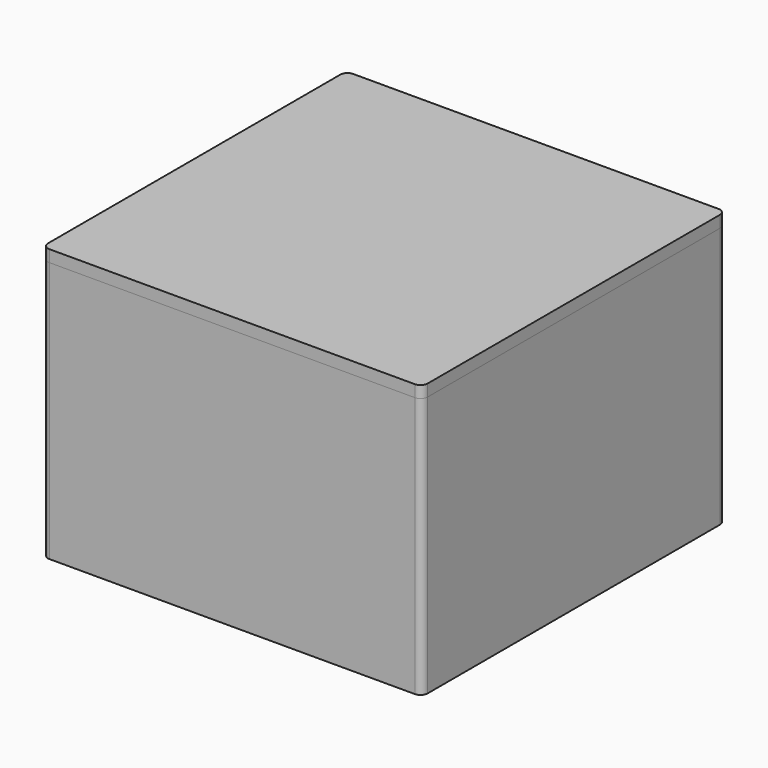
from build123d import *

# Parameters (mm, degrees)
SKETCH_W          = 150
SKETCH_H          = 150
PAD_DEPTH         = 100
SKETCH001_W       = 140
SKETCH001_H       = 140
POCKET_DEPTH      = 95
SKETCH002_W       = 10
SKETCH002_H       = 200
POCKET001_DEPTH   = 93
FILLET_R          = 3
SKETCH003_W       = 160
SKETCH003_H       = 160
PAD001_DEPTH      = 105
PAD001_DEPTH_BACK = 5
SKETCH004_W       = 151.2
SKETCH004_H       = 151.2
POCKET002_DEPTH   = 105
FILLET001_R       = 3
PAD002_START      = 105
SKETCH005_W       = 160
SKETCH005_H       = 160
PAD002_DEPTH      = 5
PAD003_START      = 100.06
SKETCH006_W       = 150.6
SKETCH006_H       = 150.6
PAD003_DEPTH      = 4.94
FILLET002_R       = 3


with BuildPart() as inner_sleeve:
    # Sketch → Pad (new body)
    with BuildSketch(Plane.XY):
        Rectangle(SKETCH_W, SKETCH_H)
    extrude(amount=PAD_DEPTH)

    # Sketch001 (on Face6 of Pad) → Pocket (cut)
    with BuildSketch(Plane.XY.offset(100)):
        Rectangle(SKETCH001_W, SKETCH001_H)
    extrude(amount=-POCKET_DEPTH, mode=Mode.SUBTRACT)

    # Sketch002 (on Face5 of Pocket) → Pocket001 (cut)
    with BuildSketch(Plane.XY.offset(100)):
        Rectangle(SKETCH002_W, SKETCH002_H)
    extrude(amount=-POCKET001_DEPTH, mode=Mode.SUBTRACT)

    # Fillet
    fillet_edges = [inner_sleeve.edges().sort_by_distance(p)[0] for p in [
        (-75, 75, 50),
        (-5, 72.5, 100),
        (5, -72.5, 7),
        (75, 75, 50),
        (-5, 72.5, 7),
        (-5, -72.5, 7),
        (5, 72.5, 7),
        (5, -72.5, 100),
        (-5, -72.5, 100),
        (5, 72.5, 100),
        (-75, -75, 50),
        (75, -75, 50),
    ]]
    fillet(fillet_edges, radius=FILLET_R)


with BuildPart() as box:
    # Sketch003 → Pad001 (new body, two sides)
    with BuildSketch(Plane.XY) as pad001_sk:
        Rectangle(SKETCH003_W, SKETCH003_H)
    extrude(amount=PAD001_DEPTH)
    extrude(pad001_sk.sketch, amount=-PAD001_DEPTH_BACK)

    # Sketch004 (on Face6 of Pad001) → Pocket002 (cut)
    with BuildSketch(Plane.XY.offset(105)):
        Rectangle(SKETCH004_W, SKETCH004_H)
    extrude(amount=-POCKET002_DEPTH, mode=Mode.SUBTRACT)

    # Fillet001
    fillet001_edges = [box.edges().sort_by_distance(p)[0] for p in [
        (-80, 80, 50),
        (-80, -80, 50),
        (80, -80, 50),
        (80, 80, 50),
    ]]
    fillet(fillet001_edges, radius=FILLET001_R)


with BuildPart() as lid:
    # Sketch005 → Pad002 (new body)
    with BuildSketch(Plane.XY.offset(PAD002_START)):
        Rectangle(SKETCH005_W, SKETCH005_H)
    extrude(amount=PAD002_DEPTH)

    # Sketch006 → Pad003 (join)
    with BuildSketch(Plane.XY.offset(PAD003_START)):
        Rectangle(SKETCH006_W, SKETCH006_H)
    extrude(amount=PAD003_DEPTH)

    # Fillet002
    fillet002_edges = [lid.edges().sort_by_distance(p)[0] for p in [
        (80, -80, 107.5),
        (75.3, -75.3, 102.53),
        (75.3, 75.3, 102.53),
        (80, 80, 107.5),
        (-80, 80, 107.5),
        (-75.3, 75.3, 102.53),
        (-80, -80, 107.5),
        (-75.3, -75.3, 102.53),
    ]]
    fillet(fillet002_edges, radius=FILLET002_R)


solid = Compound([inner_sleeve.part, box.part, lid.part])
